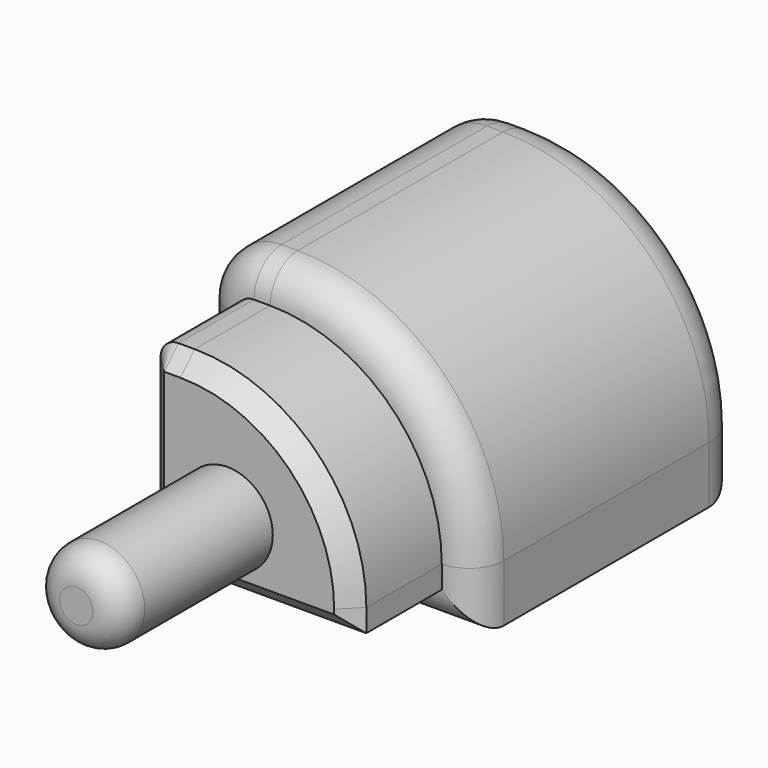
from build123d import *

# Parameters (mm, degrees)
F0_W     = 78.0319198966
F0_H     = 74.7814178467
F1_DEPTH = 95.6868380308
F2_R     = 58.5481836396
F3_R     = 14.8908027662
F4_R     = 9.7880573939
F5_R     = 12.9631428279
F6_DEPTH = 31.8753421307
F7_SIZE  = 5.08
F8_R     = 12.871399231
F9_DEPTH = 53.6622554064
F10_R    = 8.1683236061


with BuildPart() as f1:
    # F0 (on Front) → F1 (new body)
    with BuildSketch(Plane.XZ):
        with Locations((6.1589442194, 8.3135068417)):
            Rectangle(F0_W, F0_H)
    extrude(amount=F1_DEPTH)

    # F2
    f2_edges = [f1.edges().sort_by_distance(p)[0] for p in [
        (45.174904, -47.843419, 45.704216),
    ]]
    fillet(f2_edges, radius=F2_R)

    # F3
    f3_edges = [f1.edges().sort_by_distance(p)[0] for p in [
        (-32.857016, -47.843419, 45.704216),
    ]]
    fillet(f3_edges, radius=F3_R)

    # F4
    f4_edges = [f1.edges().sort_by_distance(p)[0] for p in [
        (-15.669746, -95.686838, 45.704216),
        (-28.495601, -95.686838, 41.342801),
        (28.026538, -95.686838, 28.55585),
        (-32.857016, -95.686838, 0.868105),
        (45.174904, -95.686838, -20.960585),
        (6.158944, -95.686838, -29.077202),
    ]]
    fillet(f4_edges, radius=F4_R)

    # F5
    f5_edges = [f1.edges().sort_by_distance(p)[0] for p in [
        (28.026538, 0, 28.55585),
        (-15.669746, 0, 45.704216),
        (-28.495601, 0, 41.342801),
        (-32.857016, 0, 0.868105),
        (45.174904, 0, -20.960585),
        (6.158944, 0, -29.077202),
    ]]
    fillet(f5_edges, radius=F5_R)

    # F6 (add): a face of the model
    f6_faces = [f1.faces().sort_by_distance(p)[0] for p in [
        (2.7661274156, -95.6868380308, 5.1141155416),
    ]]
    extrude(f6_faces, amount=F6_DEPTH)

    # F7
    f7_edges = [f1.edges().sort_by_distance(p)[0] for p in [
        (35.386847, -127.56218, -16.066556),
        (6.158944, -127.56218, -19.289145),
        (21.105336, -127.56218, 21.634648),
        (-23.068958, -127.56218, 5.762134),
        (-15.669746, -127.56218, 35.916158),
        (-21.574399, -127.56218, 34.421599),
    ]]
    chamfer(f7_edges, length=F7_SIZE)

    # F8 (on face) → F9 (join)
    with BuildSketch(Plane.XZ.offset(127.5621801615)):
        Circle(F8_R)
    extrude(amount=F9_DEPTH)

    # F10
    f10_edges = [f1.edges().sort_by_distance(p)[0] for p in [
        (-12.871399, -181.224436, 0),
    ]]
    fillet(f10_edges, radius=F10_R)


solid = f1.part
